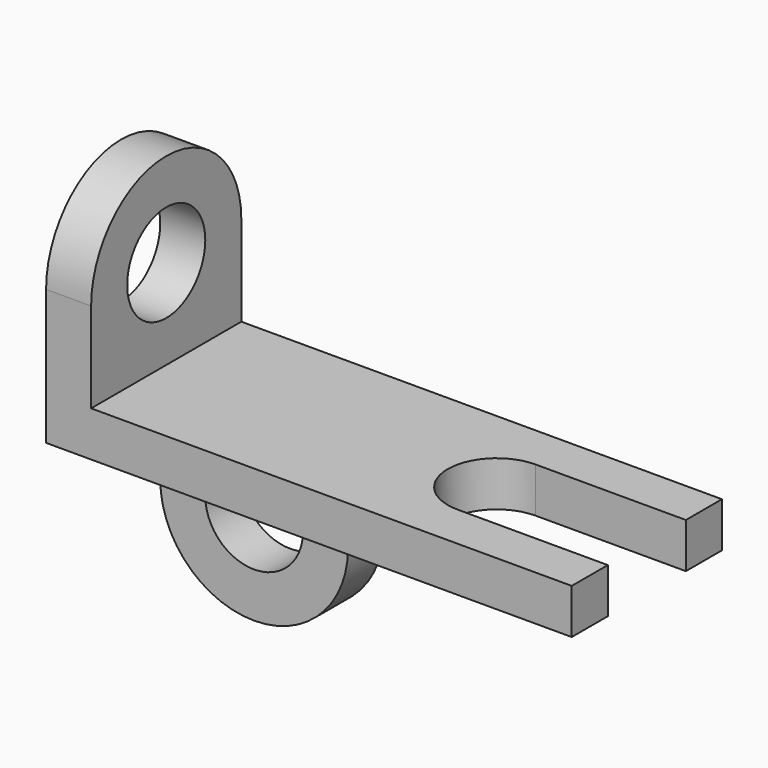
from build123d import *

# Parameters (mm, degrees)
F1_DEPTH = 6
F3_DEPTH = 6
F5_DEPTH = 6


with BuildPart() as f1:
    # F0 (on Top) → F1 (new body)
    with BuildSketch(Plane.XY):
        with BuildLine():
            Line((32, 6.5), (32, 12.5))
            Line((32, 12.5), (-32, 12.5))
            Line((-32, 12.5), (-32, -12.5))
            Line((-32, -12.5), (32, -12.5))
            Line((32, -12.5), (32, -6.5))
            Line((32, -6.5), (12, -6.5))
            ThreePointArc((12, -6.5), (5.5, 0), (12, 6.5))
            Line((12, 6.5), (32, 6.5))
        make_face()
    extrude(amount=F1_DEPTH)

    # F2 (on face) → F3 (join)
    with BuildSketch(Plane(origin=(-32, 0, 0), x_dir=(0, -1, 0), z_dir=(-1, 0, 0))):
        with BuildLine():
            Line((-12.5, 18), (-12.5, 0))
            Line((-12.5, 0), (12.5, 0))
            Line((12.5, 0), (12.5, 18))
            ThreePointArc((12.5, 18), (0, 5.5), (-12.5, 18))
        make_face()
        with BuildLine():
            ThreePointArc((12.5, 18), (0, 30.5), (-12.5, 18))
            Line((-12.5, 18), (-6.5, 18))
            ThreePointArc((-6.5, 18), (0, 24.5), (6.5, 18))
            Line((6.5, 18), (12.5, 18))
        make_face()
        with BuildLine():
            Line((-6.5, 18), (-12.5, 18))
            ThreePointArc((-12.5, 18), (0, 5.5), (12.5, 18))
            Line((12.5, 18), (6.5, 18))
            ThreePointArc((6.5, 18), (0, 11.5), (-6.5, 18))
        make_face()
    extrude(amount=F3_DEPTH)

    # F4 (on face) → F5 (join)
    with BuildSketch(Plane(origin=(0, 12.5, 0), x_dir=(-1, 0, 0), z_dir=(0, 1, 0))):
        with BuildLine():
            Line((38, -12), (38, 0))
            Line((38, 0), (29, 0))
            ThreePointArc((29, 0), (35.5, -4.5), (38, -12))
        make_face()
        with BuildLine():
            ThreePointArc((38, -12), (35.5, -4.5), (29, 0))
            Line((29, 0), (22, 0))
            ThreePointArc((22, 0), (15.5, -4.5), (13, -12))
            Line((13, -12), (19, -12))
            ThreePointArc((19, -12), (25.5, -5.5), (32, -12))
            Line((32, -12), (38, -12))
        make_face()
        with BuildLine():
            Line((22, 0), (29, 0))
            ThreePointArc((29, 0), (25.5, 0.5), (22, 0))
        make_face()
        with BuildLine():
            ThreePointArc((13, -12), (25.5, -24.5), (38, -12))
            Line((38, -12), (32, -12))
            ThreePointArc((32, -12), (25.5, -18.5), (19, -12))
            Line((19, -12), (13, -12))
        make_face()
        with BuildLine():
            ThreePointArc((13, -12), (15.5, -4.5), (22, 0))
            Line((22, 0), (13, 0))
            Line((13, 0), (13, -12))
        make_face()
        with BuildLine():
            Line((29, 0), (38, 0))
            Line((38, 0), (38, 18))
            Line((38, 18), (32, 18))
            Line((32, 18), (32, 6))
            Line((32, 6), (-32, 6))
            Line((-32, 6), (-32, 0))
            Line((-32, 0), (13, 0))
            Line((13, 0), (22, 0))
            ThreePointArc((22, 0), (25.5, 0.5), (29, 0))
        make_face()
    extrude(amount=-F5_DEPTH)


solid = f1.part
